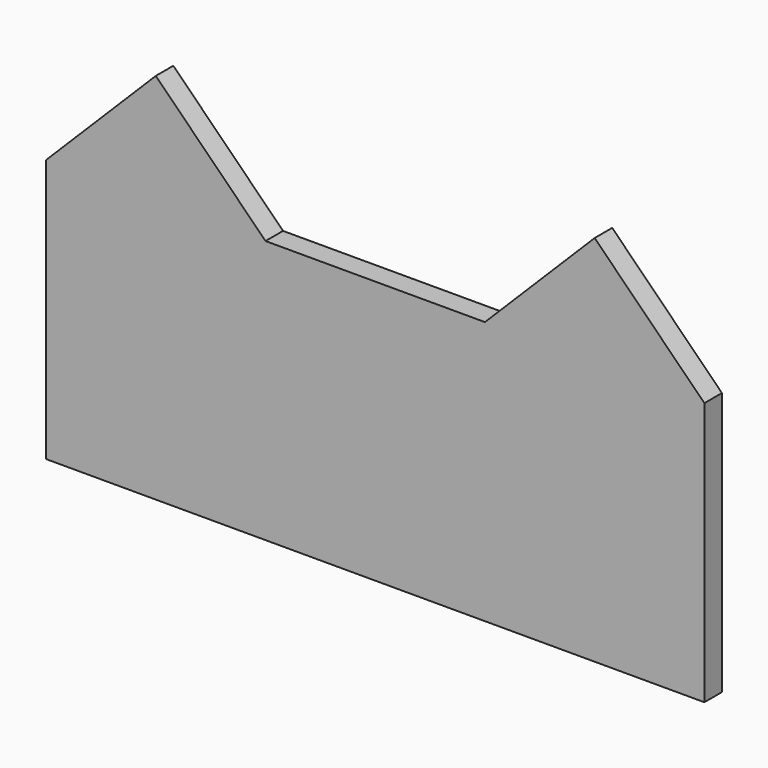
from build123d import *

# Parameters (mm, degrees)
F0_W     = 127
F0_H     = 152.4
F1_DEPTH = 12.7


with BuildPart() as f1:
    # F0 (on Front) → F1 (new body)
    with BuildSketch(Plane.XZ):
        Polygon((-63.5, -76.2), (63.5, -76.2), (63.5, 76.2), (0, 139.7), (-63.5, 76.2), align=None)
        with Locations((127, 0)):
            Rectangle(F0_W, F0_H)
        Polygon((190.5, 76.2), (190.5, -76.2), (317.5, -76.2), (317.5, 76.2), (254, 139.7), align=None)
        Polygon((190.5, 76.2), (190.5, -76.2), (317.5, -76.2), (317.5, 76.2), (254, 139.7), align=None)
    extrude(amount=F1_DEPTH)


solid = f1.part
